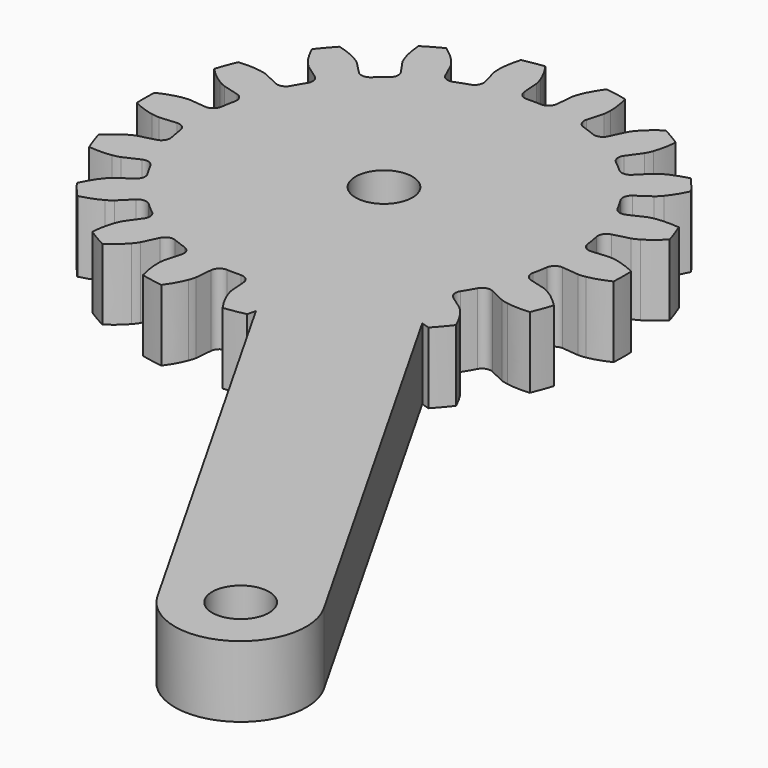
from build123d import *

# Parameters (mm, degrees)
CYLINDER006_R            = 1.6
CYLINDER006_DEPTH        = 30
EXTRUDE001_DEPTH         = 4
PAD004_DEPTH             = 4
CUT003_PLACEMENT_ANGLE   = -90.0000000001
CLONE015_PLACEMENT_ANGLE = 29.6010308611


with BuildPart() as finger_drill_master002:
    # Cylinder006 → Cylinder006 (new body)
    with BuildSketch(Plane.XY.offset(-8)):
        Circle(CYLINDER006_R)
    extrude(amount=CYLINDER006_DEPTH)


with BuildPart() as clone014:
    # Clone014 base: copy of finger-drill-master002
    add(finger_drill_master002.part)


with BuildPart() as clone014_1:
    # Clone014 placement: moved
    add(clone014.part.moved(Location((40, 0, 0))))


with BuildPart() as gear_drills001:
    # Clone013 base: copy of finger-drill-master002
    add(finger_drill_master002.part)

    # Fusion005: union Clone014
    add(clone014_1.part)


with BuildPart() as extrude001:
    # InvoluteGear001 → Extrude001 (new body)
    with BuildSketch(Plane.XY):
        with BuildLine():
            Line((10.9123364389, -0.9889898601), (11.8536391947, -1.0736474035))
            add(Edge.make_bspline(
                [(11.8536391947, -1.0736474035), (11.9004729513, -1.0753365715), (12.0417566801, -1.0753474223), (12.2778856715, -1.0319970418)],
                knots=[0, 0, 0, 0, 1, 1, 1, 1], degree=3))
            add(Edge.make_bspline(
                [(12.2778856715, -1.0319970418), (12.5610135171, -0.9793695837), (12.9715689189, -0.8647413418), (13.486733046, -0.6175170356)],
                knots=[0, 0, 0, 0, 1, 1, 1, 1], degree=3))
            ThreePointArc((13.486733046, -0.6175170356), (13.5008636743, 0), (13.486733046, 0.6175170356))
            add(Edge.make_bspline(
                [(13.486733046, 0.6175170356), (12.9715689189, 0.8647413418), (12.5610135171, 0.9793695837), (12.2778856715, 1.0319970418)],
                knots=[0, 0, 0, 0, 1, 1, 1, 1], degree=3))
            add(Edge.make_bspline(
                [(12.2778856715, 1.0319970418), (12.0417566801, 1.0753474223), (11.9004729513, 1.0753365715), (11.8536391947, 1.0736474035)],
                knots=[0, 0, 0, 0, 1, 1, 1, 1], degree=3))
            Line((11.8536391947, 1.0736474035), (10.9123364389, 0.9889898601))
            ThreePointArc((10.9123364389, 0.9889898601), (10.5517038642, 1.096810999), (10.3651746967, 1.4237484879))
            ThreePointArc((10.3651746967, 1.4237484879), (10.3035511159, 1.8167940588), (10.2270288375, 2.2072125874))
            ThreePointArc((10.2270288375, 2.2072125874), (10.290489713, 2.5782300658), (10.5924964809, 2.8028923993))
            Line((10.5924964809, 2.8028923993), (11.5059863196, 3.0452848339))
            add(Edge.make_bspline(
                [(11.5059863196, 3.0452848339), (11.5505733845, 3.0597156233), (11.6833403731, 3.1080273081), (11.8904023405, 3.2295242123)],
                knots=[0, 0, 0, 0, 1, 1, 1, 1], degree=3))
            add(Edge.make_bspline(
                [(11.8904023405, 3.2295242123), (12.138455837, 3.3758132726), (12.4850465508, 3.623946803), (12.8845867868, 4.0324581678)],
                knots=[0, 0, 0, 0, 1, 1, 1, 1], degree=3))
            ThreePointArc((12.8845867868, 4.0324581678), (12.6866619689, 4.6175673289), (12.4621802568, 5.193010571))
            add(Edge.make_bspline(
                [(12.4621802568, 5.193010571), (11.8935286354, 5.2491289186), (11.4685275862, 5.2164260143), (11.1844747882, 5.1690442219)],
                knots=[0, 0, 0, 0, 1, 1, 1, 1], degree=3))
            add(Edge.make_bspline(
                [(11.1844747882, 5.1690442219), (10.9477594141, 5.1290193831), (10.8149998479, 5.0806873055), (10.7715682419, 5.0630819187)],
                knots=[0, 0, 0, 0, 1, 1, 1, 1], degree=3))
            Line((10.7715682419, 5.0630819187), (9.9159875735, 4.6615853464))
            ThreePointArc((9.9159875735, 4.6615853464), (9.5402268028, 4.6395604701), (9.2531275137, 4.8829844833))
            ThreePointArc((9.2531275137, 4.8829844833), (9.0607907871, 5.23125), (8.8553523657, 5.5719512497))
            ThreePointArc((8.8553523657, 5.5719512497), (8.7880906309, 5.942298534), (8.9950451186, 6.2567044691))
            Line((8.9950451186, 6.2567044691), (9.770541684, 6.7969107767))
            add(Edge.make_bspline(
                [(9.770541684, 6.7969107767), (9.8075041992, 6.8257209574), (9.9157407894, 6.9165280756), (10.0687610036, 7.1015171836)],
                knots=[0, 0, 0, 0, 1, 1, 1, 1], degree=3))
            add(Edge.make_bspline(
                [(10.0687610036, 7.1015171836), (10.2518212384, 7.3238232265), (10.4926433089, 7.6755334796), (10.728369205, 8.1960594034)],
                knots=[0, 0, 0, 0, 1, 1, 1, 1], degree=3))
            ThreePointArc((10.728369205, 8.1960594034), (10.342261595, 8.6781878899), (9.9345046064, 9.1421503908))
            add(Edge.make_bspline(
                [(9.9345046064, 9.1421503908), (9.3809532688, 9.0003940789), (8.992767971, 8.8243044813), (8.7420511802, 8.6826283819)],
                knots=[0, 0, 0, 0, 1, 1, 1, 1], degree=3))
            add(Edge.make_bspline(
                [(8.7420511802, 8.6826283819), (8.5333007911, 8.5640559101), (8.4250781504, 8.4732321675), (8.3902871877, 8.4418340314)],
                knots=[0, 0, 0, 0, 1, 1, 1, 1], degree=3))
            Line((8.3902871877, 8.4418340314), (7.7236242623, 7.7719248423))
            ThreePointArc((7.7236242623, 7.7719248423), (7.3780575903, 7.6227104759), (7.025016591, 7.7532604848))
            ThreePointArc((7.025016591, 7.7532604848), (6.7251653663, 8.0147399861), (6.4155897075, 8.264630358))
            ThreePointArc((6.4155897075, 8.264630358), (6.2257181204, 8.5896381001), (6.3126585624, 8.9558656407))
            Line((6.3126585624, 8.9558656407), (6.8566255235, 9.7287289682))
            add(Edge.make_bspline(
                [(6.8566255235, 9.7287289682), (6.8815052641, 9.7684436071), (6.9521565257, 9.8907934801), (7.0326784905, 10.1169623754)],
                knots=[0, 0, 0, 0, 1, 1, 1, 1], degree=3))
            add(Edge.make_bspline(
                [(7.0326784905, 10.1169623754), (7.1286656978, 10.3884720112), (7.2346724291, 10.8013375398), (7.2781519631, 11.371094914)],
                knots=[0, 0, 0, 0, 1, 1, 1, 1], degree=3))
            ThreePointArc((7.2781519631, 11.371094914), (6.7504318371, 11.6920909149), (6.2085810829, 11.9886119497))
            add(Edge.make_bspline(
                [(6.2085810829, 11.9886119497), (5.7368964898, 11.6660788816), (5.4323478194, 11.367841595), (5.2452071809, 11.1489594171)],
                knots=[0, 0, 0, 0, 1, 1, 1, 1], degree=3))
            add(Edge.make_bspline(
                [(5.2452071809, 11.1489594171), (5.0896001545, 10.9661409023), (5.0189676871, 10.8437801786), (4.9970136712, 10.8023763717)],
                knots=[0, 0, 0, 0, 1, 1, 1, 1], degree=3))
            Line((4.9970136712, 10.8023763717), (4.5996778766, 9.9448555008))
            ThreePointArc((4.5996778766, 9.9448555008), (4.3259857438, 9.6864490991), (3.9495849892, 9.688378846))
            ThreePointArc((3.9495849892, 9.688378846), (3.5783857495, 9.831534045), (3.2020122465, 9.9604730723))
            ThreePointArc((3.2020122465, 9.9604730723), (2.9124321227, 10.2009405417), (2.8688722185, 10.5748172416))
            Line((2.8688722185, 10.5748172416), (3.1156991319, 11.4871188653))
            add(Edge.make_bspline(
                [(3.1156991319, 11.4871188653), (3.1254952341, 11.5329477909), (3.1500395821, 11.6720832183), (3.1483511603, 11.9121525942)],
                knots=[0, 0, 0, 0, 1, 1, 1, 1], degree=3))
            add(Edge.make_bspline(
                [(3.1483511603, 11.9121525942), (3.145687866, 12.2001177539), (3.104093282, 12.6243408819), (2.9500821804, 13.1746085586)],
                knots=[0, 0, 0, 0, 1, 1, 1, 1], degree=3))
            ThreePointArc((2.9500821804, 13.1746085586), (2.344400374, 13.2957552188), (1.7338110518, 13.3890699744))
            add(Edge.make_bspline(
                [(1.7338110518, 13.3890699744), (1.4008853265, 12.9246623982), (1.2167063478, 12.5402492408), (1.1157137846, 12.2705614055)],
                knots=[0, 0, 0, 0, 1, 1, 1, 1], degree=3))
            add(Edge.make_bspline(
                [(1.1157137846, 12.2705614055), (1.0320186248, 12.0455474587), (1.0074956487, 11.9064082629), (1.0010265579, 11.8599926954)],
                knots=[0, 0, 0, 0, 1, 1, 1, 1], degree=3))
            Line((1.0010265579, 11.8599926954), (0.9209424549, 10.9182898155))
            ThreePointArc((0.9209424549, 10.9182898155), (0.7521361719, 10.5818590042), (0.397775148, 10.454935733))
            ThreePointArc((0.397775148, 10.454935733), (0, 10.4625), (-0.397775148, 10.454935733))
            ThreePointArc((-0.397775148, 10.454935733), (-0.7521361719, 10.5818590042), (-0.9209424549, 10.9182898155))
            Line((-0.9209424549, 10.9182898155), (-1.0010265579, 11.8599926954))
            add(Edge.make_bspline(
                [(-1.0010265579, 11.8599926954), (-1.0074956487, 11.9064082629), (-1.0320186248, 12.0455474587), (-1.1157137846, 12.2705614055)],
                knots=[0, 0, 0, 0, 1, 1, 1, 1], degree=3))
            add(Edge.make_bspline(
                [(-1.1157137846, 12.2705614055), (-1.2167063478, 12.5402492408), (-1.4008853265, 12.9246623982), (-1.7338110518, 13.3890699744)],
                knots=[0, 0, 0, 0, 1, 1, 1, 1], degree=3))
            ThreePointArc((-1.7338110518, 13.3890699744), (-2.344400374, 13.2957552188), (-2.9500821804, 13.1746085586))
            add(Edge.make_bspline(
                [(-2.9500821804, 13.1746085586), (-3.104093282, 12.6243408819), (-3.145687866, 12.2001177539), (-3.1483511603, 11.9121525942)],
                knots=[0, 0, 0, 0, 1, 1, 1, 1], degree=3))
            add(Edge.make_bspline(
                [(-3.1483511603, 11.9121525942), (-3.1500395821, 11.6720832183), (-3.1254952341, 11.5329477909), (-3.1156991319, 11.4871188653)],
                knots=[0, 0, 0, 0, 1, 1, 1, 1], degree=3))
            Line((-3.1156991319, 11.4871188653), (-2.8688722185, 10.5748172416))
            ThreePointArc((-2.8688722185, 10.5748172416), (-2.9124321227, 10.2009405417), (-3.2020122465, 9.9604730723))
            ThreePointArc((-3.2020122465, 9.9604730723), (-3.5783857495, 9.831534045), (-3.9495849892, 9.688378846))
            ThreePointArc((-3.9495849892, 9.688378846), (-4.3259857438, 9.6864490991), (-4.5996778766, 9.9448555008))
            Line((-4.5996778766, 9.9448555008), (-4.9970136712, 10.8023763717))
            add(Edge.make_bspline(
                [(-4.9970136712, 10.8023763717), (-5.0189676871, 10.8437801786), (-5.0896001545, 10.9661409023), (-5.2452071809, 11.1489594171)],
                knots=[0, 0, 0, 0, 1, 1, 1, 1], degree=3))
            add(Edge.make_bspline(
                [(-5.2452071809, 11.1489594171), (-5.4323478194, 11.367841595), (-5.7368964898, 11.6660788816), (-6.2085810829, 11.9886119497)],
                knots=[0, 0, 0, 0, 1, 1, 1, 1], degree=3))
            ThreePointArc((-6.2085810829, 11.9886119497), (-6.7504318371, 11.6920909149), (-7.2781519631, 11.371094914))
            add(Edge.make_bspline(
                [(-7.2781519631, 11.371094914), (-7.2346724291, 10.8013375398), (-7.1286656978, 10.3884720112), (-7.0326784905, 10.1169623754)],
                knots=[0, 0, 0, 0, 1, 1, 1, 1], degree=3))
            add(Edge.make_bspline(
                [(-7.0326784905, 10.1169623754), (-6.9521565257, 9.8907934801), (-6.8815052641, 9.7684436071), (-6.8566255235, 9.7287289682)],
                knots=[0, 0, 0, 0, 1, 1, 1, 1], degree=3))
            Line((-6.8566255235, 9.7287289682), (-6.3126585624, 8.9558656407))
            ThreePointArc((-6.3126585624, 8.9558656407), (-6.2257181204, 8.5896381001), (-6.4155897075, 8.264630358))
            ThreePointArc((-6.4155897075, 8.264630358), (-6.7251653663, 8.0147399861), (-7.025016591, 7.7532604848))
            ThreePointArc((-7.025016591, 7.7532604848), (-7.3780575903, 7.6227104759), (-7.7236242623, 7.7719248423))
            Line((-7.7236242623, 7.7719248423), (-8.3902871877, 8.4418340314))
            add(Edge.make_bspline(
                [(-8.3902871877, 8.4418340314), (-8.4250781504, 8.4732321675), (-8.5333007911, 8.5640559101), (-8.7420511802, 8.6826283819)],
                knots=[0, 0, 0, 0, 1, 1, 1, 1], degree=3))
            add(Edge.make_bspline(
                [(-8.7420511802, 8.6826283819), (-8.992767971, 8.8243044813), (-9.3809532688, 9.0003940789), (-9.9345046064, 9.1421503908)],
                knots=[0, 0, 0, 0, 1, 1, 1, 1], degree=3))
            ThreePointArc((-9.9345046064, 9.1421503908), (-10.342261595, 8.6781878899), (-10.728369205, 8.1960594034))
            add(Edge.make_bspline(
                [(-10.728369205, 8.1960594034), (-10.4926433089, 7.6755334796), (-10.2518212384, 7.3238232265), (-10.0687610036, 7.1015171836)],
                knots=[0, 0, 0, 0, 1, 1, 1, 1], degree=3))
            add(Edge.make_bspline(
                [(-10.0687610036, 7.1015171836), (-9.9157407894, 6.9165280756), (-9.8075041992, 6.8257209574), (-9.770541684, 6.7969107767)],
                knots=[0, 0, 0, 0, 1, 1, 1, 1], degree=3))
            Line((-9.770541684, 6.7969107767), (-8.9950451186, 6.2567044691))
            ThreePointArc((-8.9950451186, 6.2567044691), (-8.7880906309, 5.942298534), (-8.8553523657, 5.5719512497))
            ThreePointArc((-8.8553523657, 5.5719512497), (-9.0607907871, 5.23125), (-9.2531275137, 4.8829844833))
            ThreePointArc((-9.2531275137, 4.8829844833), (-9.5402268028, 4.6395604701), (-9.9159875735, 4.6615853464))
            Line((-9.9159875735, 4.6615853464), (-10.7715682419, 5.0630819187))
            add(Edge.make_bspline(
                [(-10.7715682419, 5.0630819187), (-10.8149998479, 5.0806873055), (-10.9477594141, 5.1290193831), (-11.1844747882, 5.1690442219)],
                knots=[0, 0, 0, 0, 1, 1, 1, 1], degree=3))
            add(Edge.make_bspline(
                [(-11.1844747882, 5.1690442219), (-11.4685275862, 5.2164260143), (-11.8935286354, 5.2491289186), (-12.4621802568, 5.193010571)],
                knots=[0, 0, 0, 0, 1, 1, 1, 1], degree=3))
            ThreePointArc((-12.4621802568, 5.193010571), (-12.6866619689, 4.6175673289), (-12.8845867868, 4.0324581678))
            add(Edge.make_bspline(
                [(-12.8845867868, 4.0324581678), (-12.4850465508, 3.623946803), (-12.138455837, 3.3758132726), (-11.8904023405, 3.2295242123)],
                knots=[0, 0, 0, 0, 1, 1, 1, 1], degree=3))
            add(Edge.make_bspline(
                [(-11.8904023405, 3.2295242123), (-11.6833403731, 3.1080273081), (-11.5505733845, 3.0597156233), (-11.5059863196, 3.0452848339)],
                knots=[0, 0, 0, 0, 1, 1, 1, 1], degree=3))
            Line((-11.5059863196, 3.0452848339), (-10.5924964809, 2.8028923993))
            ThreePointArc((-10.5924964809, 2.8028923993), (-10.290489713, 2.5782300658), (-10.2270288375, 2.2072125874))
            ThreePointArc((-10.2270288375, 2.2072125874), (-10.3035511159, 1.8167940588), (-10.3651746967, 1.4237484879))
            ThreePointArc((-10.3651746967, 1.4237484879), (-10.5517038642, 1.096810999), (-10.9123364389, 0.9889898601))
            Line((-10.9123364389, 0.9889898601), (-11.8536391947, 1.0736474035))
            add(Edge.make_bspline(
                [(-11.8536391947, 1.0736474035), (-11.9004729513, 1.0753365715), (-12.0417566801, 1.0753474223), (-12.2778856715, 1.0319970418)],
                knots=[0, 0, 0, 0, 1, 1, 1, 1], degree=3))
            add(Edge.make_bspline(
                [(-12.2778856715, 1.0319970418), (-12.5610135171, 0.9793695837), (-12.9715689189, 0.8647413418), (-13.486733046, 0.6175170356)],
                knots=[0, 0, 0, 0, 1, 1, 1, 1], degree=3))
            ThreePointArc((-13.486733046, 0.6175170356), (-13.5008636743, 0), (-13.486733046, -0.6175170356))
            add(Edge.make_bspline(
                [(-13.486733046, -0.6175170356), (-12.9715689189, -0.8647413418), (-12.5610135171, -0.9793695837), (-12.2778856715, -1.0319970418)],
                knots=[0, 0, 0, 0, 1, 1, 1, 1], degree=3))
            add(Edge.make_bspline(
                [(-12.2778856715, -1.0319970418), (-12.0417566801, -1.0753474223), (-11.9004729513, -1.0753365715), (-11.8536391947, -1.0736474035)],
                knots=[0, 0, 0, 0, 1, 1, 1, 1], degree=3))
            Line((-11.8536391947, -1.0736474035), (-10.9123364389, -0.9889898601))
            ThreePointArc((-10.9123364389, -0.9889898601), (-10.5517038642, -1.096810999), (-10.3651746967, -1.4237484879))
            ThreePointArc((-10.3651746967, -1.4237484879), (-10.3035511159, -1.8167940588), (-10.2270288375, -2.2072125874))
            ThreePointArc((-10.2270288375, -2.2072125874), (-10.290489713, -2.5782300658), (-10.5924964809, -2.8028923993))
            Line((-10.5924964809, -2.8028923993), (-11.5059863196, -3.0452848339))
            add(Edge.make_bspline(
                [(-11.5059863196, -3.0452848339), (-11.5505733845, -3.0597156233), (-11.6833403731, -3.1080273081), (-11.8904023405, -3.2295242123)],
                knots=[0, 0, 0, 0, 1, 1, 1, 1], degree=3))
            add(Edge.make_bspline(
                [(-11.8904023405, -3.2295242123), (-12.138455837, -3.3758132726), (-12.4850465508, -3.623946803), (-12.8845867868, -4.0324581678)],
                knots=[0, 0, 0, 0, 1, 1, 1, 1], degree=3))
            ThreePointArc((-12.8845867868, -4.0324581678), (-12.6866619689, -4.6175673289), (-12.4621802568, -5.193010571))
            add(Edge.make_bspline(
                [(-12.4621802568, -5.193010571), (-11.8935286354, -5.2491289186), (-11.4685275862, -5.2164260143), (-11.1844747882, -5.1690442219)],
                knots=[0, 0, 0, 0, 1, 1, 1, 1], degree=3))
            add(Edge.make_bspline(
                [(-11.1844747882, -5.1690442219), (-10.9477594141, -5.1290193831), (-10.8149998479, -5.0806873055), (-10.7715682419, -5.0630819187)],
                knots=[0, 0, 0, 0, 1, 1, 1, 1], degree=3))
            Line((-10.7715682419, -5.0630819187), (-9.9159875735, -4.6615853464))
            ThreePointArc((-9.9159875735, -4.6615853464), (-9.5402268028, -4.6395604701), (-9.2531275137, -4.8829844833))
            ThreePointArc((-9.2531275137, -4.8829844833), (-9.0607907871, -5.23125), (-8.8553523657, -5.5719512497))
            ThreePointArc((-8.8553523657, -5.5719512497), (-8.7880906309, -5.942298534), (-8.9950451186, -6.2567044691))
            Line((-8.9950451186, -6.2567044691), (-9.770541684, -6.7969107767))
            add(Edge.make_bspline(
                [(-9.770541684, -6.7969107767), (-9.8075041992, -6.8257209574), (-9.9157407894, -6.9165280756), (-10.0687610036, -7.1015171836)],
                knots=[0, 0, 0, 0, 1, 1, 1, 1], degree=3))
            add(Edge.make_bspline(
                [(-10.0687610036, -7.1015171836), (-10.2518212384, -7.3238232265), (-10.4926433089, -7.6755334796), (-10.728369205, -8.1960594034)],
                knots=[0, 0, 0, 0, 1, 1, 1, 1], degree=3))
            ThreePointArc((-10.728369205, -8.1960594034), (-10.342261595, -8.6781878899), (-9.9345046064, -9.1421503908))
            add(Edge.make_bspline(
                [(-9.9345046064, -9.1421503908), (-9.3809532688, -9.0003940789), (-8.992767971, -8.8243044813), (-8.7420511802, -8.6826283819)],
                knots=[0, 0, 0, 0, 1, 1, 1, 1], degree=3))
            add(Edge.make_bspline(
                [(-8.7420511802, -8.6826283819), (-8.5333007911, -8.5640559101), (-8.4250781504, -8.4732321675), (-8.3902871877, -8.4418340314)],
                knots=[0, 0, 0, 0, 1, 1, 1, 1], degree=3))
            Line((-8.3902871877, -8.4418340314), (-7.7236242623, -7.7719248423))
            ThreePointArc((-7.7236242623, -7.7719248423), (-7.3780575903, -7.6227104759), (-7.025016591, -7.7532604848))
            ThreePointArc((-7.025016591, -7.7532604848), (-6.7251653663, -8.0147399861), (-6.4155897075, -8.264630358))
            ThreePointArc((-6.4155897075, -8.264630358), (-6.2257181204, -8.5896381001), (-6.3126585624, -8.9558656407))
            Line((-6.3126585624, -8.9558656407), (-6.8566255235, -9.7287289682))
            add(Edge.make_bspline(
                [(-6.8566255235, -9.7287289682), (-6.8815052641, -9.7684436071), (-6.9521565257, -9.8907934801), (-7.0326784905, -10.1169623754)],
                knots=[0, 0, 0, 0, 1, 1, 1, 1], degree=3))
            add(Edge.make_bspline(
                [(-7.0326784905, -10.1169623754), (-7.1286656978, -10.3884720112), (-7.2346724291, -10.8013375398), (-7.2781519631, -11.371094914)],
                knots=[0, 0, 0, 0, 1, 1, 1, 1], degree=3))
            ThreePointArc((-7.2781519631, -11.371094914), (-6.7504318371, -11.6920909149), (-6.2085810829, -11.9886119497))
            add(Edge.make_bspline(
                [(-6.2085810829, -11.9886119497), (-5.7368964898, -11.6660788816), (-5.4323478194, -11.367841595), (-5.2452071809, -11.1489594171)],
                knots=[0, 0, 0, 0, 1, 1, 1, 1], degree=3))
            add(Edge.make_bspline(
                [(-5.2452071809, -11.1489594171), (-5.0896001545, -10.9661409023), (-5.0189676871, -10.8437801786), (-4.9970136712, -10.8023763717)],
                knots=[0, 0, 0, 0, 1, 1, 1, 1], degree=3))
            Line((-4.9970136712, -10.8023763717), (-4.5996778766, -9.9448555008))
            ThreePointArc((-4.5996778766, -9.9448555008), (-4.3259857438, -9.6864490991), (-3.9495849892, -9.688378846))
            ThreePointArc((-3.9495849892, -9.688378846), (-3.5783857495, -9.831534045), (-3.2020122465, -9.9604730723))
            ThreePointArc((-3.2020122465, -9.9604730723), (-2.9124321227, -10.2009405417), (-2.8688722185, -10.5748172416))
            Line((-2.8688722185, -10.5748172416), (-3.1156991319, -11.4871188653))
            add(Edge.make_bspline(
                [(-3.1156991319, -11.4871188653), (-3.1254952341, -11.5329477909), (-3.1500395821, -11.6720832183), (-3.1483511603, -11.9121525942)],
                knots=[0, 0, 0, 0, 1, 1, 1, 1], degree=3))
            add(Edge.make_bspline(
                [(-3.1483511603, -11.9121525942), (-3.145687866, -12.2001177539), (-3.104093282, -12.6243408819), (-2.9500821804, -13.1746085586)],
                knots=[0, 0, 0, 0, 1, 1, 1, 1], degree=3))
            ThreePointArc((-2.9500821804, -13.1746085586), (-2.344400374, -13.2957552188), (-1.7338110518, -13.3890699744))
            add(Edge.make_bspline(
                [(-1.7338110518, -13.3890699744), (-1.4008853265, -12.9246623982), (-1.2167063478, -12.5402492408), (-1.1157137846, -12.2705614055)],
                knots=[0, 0, 0, 0, 1, 1, 1, 1], degree=3))
            add(Edge.make_bspline(
                [(-1.1157137846, -12.2705614055), (-1.0320186248, -12.0455474587), (-1.0074956487, -11.9064082629), (-1.0010265579, -11.8599926954)],
                knots=[0, 0, 0, 0, 1, 1, 1, 1], degree=3))
            Line((-1.0010265579, -11.8599926954), (-0.9209424549, -10.9182898155))
            ThreePointArc((-0.9209424549, -10.9182898155), (-0.7521361719, -10.5818590042), (-0.397775148, -10.454935733))
            ThreePointArc((-0.397775148, -10.454935733), (0, -10.4625), (0.397775148, -10.454935733))
            ThreePointArc((0.397775148, -10.454935733), (0.7521361719, -10.5818590042), (0.9209424549, -10.9182898155))
            Line((0.9209424549, -10.9182898155), (1.0010265579, -11.8599926954))
            add(Edge.make_bspline(
                [(1.0010265579, -11.8599926954), (1.0074956487, -11.9064082629), (1.0320186248, -12.0455474587), (1.1157137846, -12.2705614055)],
                knots=[0, 0, 0, 0, 1, 1, 1, 1], degree=3))
            add(Edge.make_bspline(
                [(1.1157137846, -12.2705614055), (1.2167063478, -12.5402492408), (1.4008853265, -12.9246623982), (1.7338110518, -13.3890699744)],
                knots=[0, 0, 0, 0, 1, 1, 1, 1], degree=3))
            ThreePointArc((1.7338110518, -13.3890699744), (2.344400374, -13.2957552188), (2.9500821804, -13.1746085586))
            add(Edge.make_bspline(
                [(2.9500821804, -13.1746085586), (3.104093282, -12.6243408819), (3.145687866, -12.2001177539), (3.1483511603, -11.9121525942)],
                knots=[0, 0, 0, 0, 1, 1, 1, 1], degree=3))
            add(Edge.make_bspline(
                [(3.1483511603, -11.9121525942), (3.1500395821, -11.6720832183), (3.1254952341, -11.5329477909), (3.1156991319, -11.4871188653)],
                knots=[0, 0, 0, 0, 1, 1, 1, 1], degree=3))
            Line((3.1156991319, -11.4871188653), (2.8688722185, -10.5748172416))
            ThreePointArc((2.8688722185, -10.5748172416), (2.9124321227, -10.2009405417), (3.2020122465, -9.9604730723))
            ThreePointArc((3.2020122465, -9.9604730723), (3.5783857495, -9.831534045), (3.9495849892, -9.688378846))
            ThreePointArc((3.9495849892, -9.688378846), (4.3259857438, -9.6864490991), (4.5996778766, -9.9448555008))
            Line((4.5996778766, -9.9448555008), (4.9970136712, -10.8023763717))
            add(Edge.make_bspline(
                [(4.9970136712, -10.8023763717), (5.0189676871, -10.8437801786), (5.0896001545, -10.9661409023), (5.2452071809, -11.1489594171)],
                knots=[0, 0, 0, 0, 1, 1, 1, 1], degree=3))
            add(Edge.make_bspline(
                [(5.2452071809, -11.1489594171), (5.4323478194, -11.367841595), (5.7368964898, -11.6660788816), (6.2085810829, -11.9886119497)],
                knots=[0, 0, 0, 0, 1, 1, 1, 1], degree=3))
            ThreePointArc((6.2085810829, -11.9886119497), (6.7504318371, -11.6920909149), (7.2781519631, -11.371094914))
            add(Edge.make_bspline(
                [(7.2781519631, -11.371094914), (7.2346724291, -10.8013375398), (7.1286656978, -10.3884720112), (7.0326784905, -10.1169623754)],
                knots=[0, 0, 0, 0, 1, 1, 1, 1], degree=3))
            add(Edge.make_bspline(
                [(7.0326784905, -10.1169623754), (6.9521565257, -9.8907934801), (6.8815052641, -9.7684436071), (6.8566255235, -9.7287289682)],
                knots=[0, 0, 0, 0, 1, 1, 1, 1], degree=3))
            Line((6.8566255235, -9.7287289682), (6.3126585624, -8.9558656407))
            ThreePointArc((6.3126585624, -8.9558656407), (6.2257181204, -8.5896381001), (6.4155897075, -8.264630358))
            ThreePointArc((6.4155897075, -8.264630358), (6.7251653663, -8.0147399861), (7.025016591, -7.7532604848))
            ThreePointArc((7.025016591, -7.7532604848), (7.3780575903, -7.6227104759), (7.7236242623, -7.7719248423))
            Line((7.7236242623, -7.7719248423), (8.3902871877, -8.4418340314))
            add(Edge.make_bspline(
                [(8.3902871877, -8.4418340314), (8.4250781504, -8.4732321675), (8.5333007911, -8.5640559101), (8.7420511802, -8.6826283819)],
                knots=[0, 0, 0, 0, 1, 1, 1, 1], degree=3))
            add(Edge.make_bspline(
                [(8.7420511802, -8.6826283819), (8.992767971, -8.8243044813), (9.3809532688, -9.0003940789), (9.9345046064, -9.1421503908)],
                knots=[0, 0, 0, 0, 1, 1, 1, 1], degree=3))
            ThreePointArc((9.9345046064, -9.1421503908), (10.342261595, -8.6781878899), (10.728369205, -8.1960594034))
            add(Edge.make_bspline(
                [(10.728369205, -8.1960594034), (10.4926433089, -7.6755334796), (10.2518212384, -7.3238232265), (10.0687610036, -7.1015171836)],
                knots=[0, 0, 0, 0, 1, 1, 1, 1], degree=3))
            add(Edge.make_bspline(
                [(10.0687610036, -7.1015171836), (9.9157407894, -6.9165280756), (9.8075041992, -6.8257209574), (9.770541684, -6.7969107767)],
                knots=[0, 0, 0, 0, 1, 1, 1, 1], degree=3))
            Line((9.770541684, -6.7969107767), (8.9950451186, -6.2567044691))
            ThreePointArc((8.9950451186, -6.2567044691), (8.7880906309, -5.942298534), (8.8553523657, -5.5719512497))
            ThreePointArc((8.8553523657, -5.5719512497), (9.0607907871, -5.23125), (9.2531275137, -4.8829844833))
            ThreePointArc((9.2531275137, -4.8829844833), (9.5402268028, -4.6395604701), (9.9159875735, -4.6615853464))
            Line((9.9159875735, -4.6615853464), (10.7715682419, -5.0630819187))
            add(Edge.make_bspline(
                [(10.7715682419, -5.0630819187), (10.8149998479, -5.0806873055), (10.9477594141, -5.1290193831), (11.1844747882, -5.1690442219)],
                knots=[0, 0, 0, 0, 1, 1, 1, 1], degree=3))
            add(Edge.make_bspline(
                [(11.1844747882, -5.1690442219), (11.4685275862, -5.2164260143), (11.8935286354, -5.2491289186), (12.4621802568, -5.193010571)],
                knots=[0, 0, 0, 0, 1, 1, 1, 1], degree=3))
            ThreePointArc((12.4621802568, -5.193010571), (12.6866619689, -4.6175673289), (12.8845867868, -4.0324581678))
            add(Edge.make_bspline(
                [(12.8845867868, -4.0324581678), (12.4850465508, -3.623946803), (12.138455837, -3.3758132726), (11.8904023405, -3.2295242123)],
                knots=[0, 0, 0, 0, 1, 1, 1, 1], degree=3))
            add(Edge.make_bspline(
                [(11.8904023405, -3.2295242123), (11.6833403731, -3.1080273081), (11.5505733845, -3.0597156233), (11.5059863196, -3.0452848339)],
                knots=[0, 0, 0, 0, 1, 1, 1, 1], degree=3))
            Line((11.5059863196, -3.0452848339), (10.5924964809, -2.8028923993))
            ThreePointArc((10.5924964809, -2.8028923993), (10.290489713, -2.5782300658), (10.2270288375, -2.2072125874))
            ThreePointArc((10.2270288375, -2.2072125874), (10.3035511159, -1.8167940588), (10.3651746967, -1.4237484879))
            ThreePointArc((10.3651746967, -1.4237484879), (10.5517038642, -1.096810999), (10.9123364389, -0.9889898601))
        make_face()
    extrude(amount=EXTRUDE001_DEPTH)


with BuildPart() as clone_of_right_gear001:
    # Sketch004 → Pad004 (new body)
    with BuildSketch(Plane.XY):
        with BuildLine():
            ThreePointArc((0, 3.7), (-3.7, 0), (0, -3.7))
            Line((0, -3.7), (40, -3.7))
            ThreePointArc((40, -3.7), (43.7, 0), (40, 3.7))
            Line((0, 3.7), (40, 3.7))
        make_face()
    extrude(amount=PAD004_DEPTH)

    # Fusion006: union Extrude001
    add(extrude001.part)

    # Cut003: cut gear-drills001
    add(gear_drills001.part, mode=Mode.SUBTRACT)


with BuildPart() as clone_of_right_gear001_1:
    # Cut003 placement: moved
    add(clone_of_right_gear001.part.moved(Location((12.4, 16, 4.5))).rotate(Axis((12.4, 16, 4.5), (0, 0, 1)), CUT003_PLACEMENT_ANGLE))


with BuildPart() as clone_of_right_gear001_2:
    # Clone015 placement: moved
    add(clone_of_right_gear001_1.part.moved(Location((221.325173364, 244.8968478797, 0.2))).rotate(Axis((221.325173364, 244.8968478797, 0.2), (0, 0, 1)), CLONE015_PLACEMENT_ANGLE))


with BuildPart() as clone_of_right_gear001_3:
    # Clone183 placement: moved
    add(clone_of_right_gear001_2.part.moved(Location((-14, -699, -4.7))))


solid = clone_of_right_gear001_3.part
